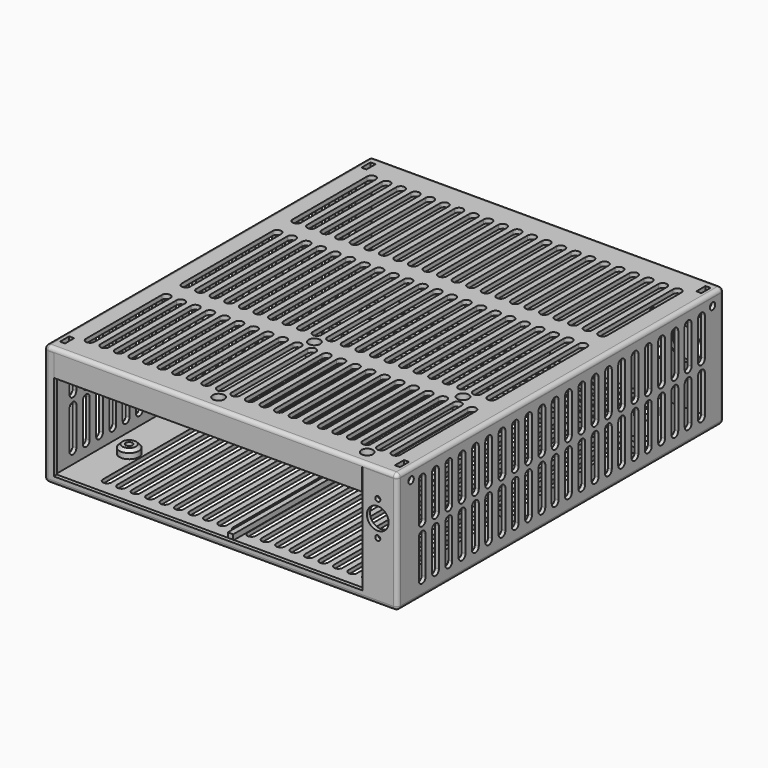
from build123d import *

# Parameters (mm, degrees)
SKETCH009_W            = 182
SKETCH009_H            = 210.5
PAD_DEPTH              = 2
SKETCH014_W            = 182
SKETCH014_H            = 210.5
SKETCH014_W_2          = 178
SKETCH014_H_2          = 206.5
PAD002_DEPTH           = 58
FILLET002_R            = 2
SKETCH010_R            = 5
PAD001_DEPTH           = 4.3
CHAMFER_SIZE           = 1.5
PAD009_DEPTH           = 2.8
POCKET_DEPTH           = 4.301
SKETCH034_R            = 1.75
POCKET015_DEPTH        = 55.501
POCKET001_DEPTH        = 60.001
LINEARPATTERN_COUNT    = 20
LINEARPATTERN_PITCH    = 7.446316
POCKET002_DEPTH        = 60.001
LINEARPATTERN001_COUNT = 4
LINEARPATTERN001_PITCH = 7.4
SKETCH018_R            = 1.75
POCKET005_DEPTH        = 92.501
POCKET005_DEPTH_BACK   = 89.501
SKETCH019_R            = 8.1
SKETCH019_R_2          = 3.3
POCKET006_DEPTH        = 121.001
SKETCH020_R            = 1.3
SKETCH020_R_2          = 5.6
POCKET007_DEPTH        = 89.501
SKETCH008_W            = 159
SKETCH008_H            = 56
POCKET003_DEPTH        = 2
POCKET004_DEPTH        = 92.501
POCKET004_DEPTH_BACK   = 89.501
LINEARPATTERN002_COUNT = 22
LINEARPATTERN002_PITCH = 8.567717
SKETCH021_W            = 182
SKETCH021_H            = 210.5
PAD003_DEPTH           = 2.2
FILLET003_R            = 1.99
SKETCH022_W            = 172
SKETCH022_H            = 62.86
SKETCH022_H_2          = 68.66
PAD004_DEPTH           = 2.8
SKETCH024_W            = 158.6
SKETCH024_H            = 2
PAD006_DEPTH           = 11.3
FILLET_R               = 3
SKETCH028_W            = 5
SKETCH028_H            = 9.888973
PAD007_DEPTH           = 7.6
POCKET013_DEPTH        = 1.3
POCKET014_DEPTH        = 1.3
SKETCH030_R            = 1.75
POCKET011_DEPTH        = 92.501
POCKET011_DEPTH_BACK   = 89.501
SKETCH023_R            = 4.2
PAD005_DEPTH           = 3.2
SKETCH027_R            = 3
POCKET009_DEPTH        = 3.4
SKETCH036_R            = 1.75
POCKET016_DEPTH        = 9.801
POCKET008_DEPTH        = 2.201
LINEARPATTERN003_COUNT = 22
LINEARPATTERN003_PITCH = 7.504762
SKETCH031_R            = 3
POCKET012_DEPTH        = 3
FILLET001_R            = 1.5


with BuildPart() as body:
    # Sketch009 → Pad (new body)
    with BuildSketch(Plane.XY):
        with Locations((-1.5, 15.75)):
            Rectangle(SKETCH009_W, SKETCH009_H)
    extrude(amount=PAD_DEPTH)

    # Sketch014 → Pad002 (join)
    with BuildSketch(Plane.XY.offset(2)):
        with Locations((-1.5, 15.75)):
            Rectangle(SKETCH014_W, SKETCH014_H)
        with Locations((-1.5, 15.75)):
            Rectangle(SKETCH014_W_2, SKETCH014_H_2, mode=Mode.SUBTRACT)
    extrude(amount=PAD002_DEPTH)

    # Fillet002
    fillet002_edges = [body.edges().sort_by_distance(p)[0] for p in [
        (-1.5, 121, 0),
        (-92.5, 15.75, 0),
        (-1.5, -89.5, 0),
        (89.5, 15.75, 0),
        (-92.5, -89.5, 30),
        (-92.5, 121, 30),
        (89.5, -89.5, 30),
        (89.5, 121, 30),
    ]]
    fillet(fillet002_edges, radius=FILLET002_R)

    # Sketch010 → Pad001 (join)
    with BuildSketch(Plane.XY.offset(2)):
        with Locations((-78.65, 104.5)):
            Circle(SKETCH010_R)
        with Locations((-78.65, 80.1)):
            Circle(SKETCH010_R)
        with Locations((62.65, 104.5)):
            Circle(SKETCH010_R)
        with Locations((78.83, 80.1)):
            Circle(SKETCH010_R)
        with Locations((78.83, -74.84)):
            Circle(SKETCH010_R)
        with Locations((-78.65, -51.98)):
            Circle(SKETCH010_R)
    extrude(amount=PAD001_DEPTH)

    # Chamfer
    chamfer_edges = [body.edges().sort_by_distance(p)[0] for p in [
        (-83.65, -51.98, 6.3),
        (-83.65, 80.1, 6.3),
        (-83.65, 104.5, 6.3),
        (57.65, 104.5, 6.3),
        (73.83, 80.1, 6.3),
        (73.83, -74.84, 6.3),
    ]]
    chamfer(chamfer_edges, length=CHAMFER_SIZE)

    # Sketch035 → Pad009 (join)
    with BuildSketch(Plane.XY.offset(2)):
        Polygon((-90.5, 1.4), (-90.5, -1.4), (-1.4, -1.4), (-1.4, -85), (1.4, -85), (1.4, -1.4), (87.5, -1.4), (87.5, 1.4), (1.4, 1.4), (1.4, 78.7), (87.5, 78.7), (87.5, 81.5), (1.4, 81.5), (1.4, 119), (-1.4, 119), (-1.4, 81.5), (-90.5, 81.5), (-90.5, 78.7), (-1.4, 78.7), (-1.4, 1.4), align=None)
    extrude(amount=PAD009_DEPTH)

    # Sketch011 → Pocket (cut, through all)
    with BuildSketch(Plane.XY.offset(4.3)):
        Polygon((-75.705514, 102.8), (-75.705514, 106.2), (-78.65, 107.9), (-81.594486, 106.2), (-81.594486, 102.8), (-78.65, 101.1), align=None)
        Polygon((65.594486, 102.8), (65.594486, 106.2), (62.65, 107.9), (59.705514, 106.2), (59.705514, 102.8), (62.65, 101.1), align=None)
        Polygon((81.774486, 78.4), (81.774486, 81.8), (78.83, 83.5), (75.885514, 81.8), (75.885514, 78.4), (78.83, 76.7), align=None)
        Polygon((81.774486, -76.54), (81.774486, -73.14), (78.83, -71.44), (75.885514, -73.14), (75.885514, -76.54), (78.83, -78.24), align=None)
        Polygon((-75.705514, -53.68), (-75.705514, -50.28), (-78.65, -48.58), (-81.594486, -50.28), (-81.594486, -53.68), (-78.65, -55.38), align=None)
        Polygon((-75.705514, 78.4), (-75.705514, 81.8), (-78.65, 83.5), (-81.594486, 81.8), (-81.594486, 78.4), (-78.65, 76.7), align=None)
    extrude(amount=-POCKET_DEPTH, mode=Mode.SUBTRACT)

    # Sketch034 → Pocket015 (cut, through all)
    with BuildSketch(Plane.XY.offset(4.5)):
        with Locations((-78.65, 104.5)):
            Circle(SKETCH034_R)
        with Locations((62.65, 104.5)):
            Circle(SKETCH034_R)
        with Locations((78.83, 80.1)):
            Circle(SKETCH034_R)
        with Locations((78.83, -74.84)):
            Circle(SKETCH034_R)
        with Locations((-78.65, -51.98)):
            Circle(SKETCH034_R)
        with Locations((-78.65, 80.1)):
            Circle(SKETCH034_R)
    extrude(amount=POCKET015_DEPTH, mode=Mode.SUBTRACT)

    # Sketch012 → Pocket001 (cut, through all)
    with BuildSketch(Plane.XY):
        with BuildLine():
            ThreePointArc((-68.45, 76.15), (-70.65, 78.35), (-72.85, 76.15))
            Line((-72.85, 76.15), (-72.85, 6))
            ThreePointArc((-72.85, 6), (-70.65, 3.8), (-68.45, 6))
            Line((-68.45, 76.15), (-68.45, 6))
        make_face()
        with BuildLine():
            ThreePointArc((-68.45, -6), (-70.65, -3.8), (-72.85, -6))
            Line((-72.85, -6), (-72.85, -76.15))
            ThreePointArc((-72.85, -76.15), (-70.65, -78.35), (-68.45, -76.15))
            Line((-68.45, -6), (-68.45, -76.15))
        make_face()
    pocket001 = extrude(amount=POCKET001_DEPTH, mode=Mode.SUBTRACT)

    # LinearPattern: Pocket001 ×20
    with Locations(*[(i * LINEARPATTERN_PITCH, 0, 0) for i in range(1, LINEARPATTERN_COUNT)]):
        add(pocket001, mode=Mode.SUBTRACT)

    # Sketch013 → Pocket002 (cut, through all)
    with BuildSketch(Plane.XY):
        with BuildLine():
            ThreePointArc((-70.65, 93.6), (-72.85, 91.4), (-70.65, 89.2))
            Line((-70.65, 89.2), (-4, 89.2))
            ThreePointArc((-4, 89.2), (-1.8, 91.4), (-4, 93.6))
            Line((-70.65, 93.6), (-4, 93.6))
        make_face()
        with BuildLine():
            ThreePointArc((4, 93.6), (1.8, 91.4), (4, 89.2))
            Line((4, 89.2), (54.65, 89.2))
            ThreePointArc((54.65, 89.2), (56.85, 91.4), (54.65, 93.6))
            Line((4, 93.6), (54.65, 93.6))
        make_face()
    pocket002 = extrude(amount=POCKET002_DEPTH, mode=Mode.SUBTRACT)

    # LinearPattern001: Pocket002 ×4
    with Locations(*[(0, i * LINEARPATTERN001_PITCH, 0) for i in range(1, LINEARPATTERN001_COUNT)]):
        add(pocket002, mode=Mode.SUBTRACT)

    # Sketch018 → Pocket005 (cut, two sides)
    with BuildSketch(Plane.YZ) as pocket005_sk:
        with Locations((-80.555514, 56.2)):
            Circle(SKETCH018_R)
        with Locations((113.655514, 56.2)):
            Circle(SKETCH018_R)
    extrude(amount=-POCKET005_DEPTH, mode=Mode.SUBTRACT)
    extrude(pocket005_sk.sketch, amount=POCKET005_DEPTH_BACK, mode=Mode.SUBTRACT)

    # Sketch019 → Pocket006 (cut, through all)
    with BuildSketch(Plane.XZ):
        with Locations((71.4, 31)):
            Circle(SKETCH019_R)
        with Locations((56.000325, 22.9)):
            Circle(SKETCH019_R_2)
        with Locations((56.000325, 39.1)):
            Circle(SKETCH019_R_2)
    extrude(amount=-POCKET006_DEPTH, mode=Mode.SUBTRACT)

    # Sketch020 → Pocket007 (cut, through all)
    with BuildSketch(Plane.XZ):
        with Locations((79.5, 48.1)):
            Circle(SKETCH020_R)
        with Locations((79.5, 30.32)):
            Circle(SKETCH020_R)
        with Locations((79.5, 39.21)):
            Circle(SKETCH020_R_2)
    extrude(amount=POCKET007_DEPTH, mode=Mode.SUBTRACT)

    # Sketch008 → Pocket003 (cut)
    with BuildSketch(Plane.XZ.offset(89.5)):
        with Locations((-8, 32)):
            Rectangle(SKETCH008_W, SKETCH008_H)
    extrude(amount=-POCKET003_DEPTH, mode=Mode.SUBTRACT)

    # Sketch017 → Pocket004 (cut, two sides)
    with BuildSketch(Plane.YZ) as pocket004_sk:
        with BuildLine():
            ThreePointArc((-71.211027, 54), (-73.411027, 56.2), (-75.611027, 54))
            Line((-75.611027, 54), (-75.611027, 34.5))
            ThreePointArc((-75.611027, 34.5), (-73.411027, 32.3), (-71.211027, 34.5))
            Line((-71.211027, 54), (-71.211027, 34.5))
        make_face()
        with BuildLine():
            ThreePointArc((-75.611027, 8.6), (-73.411027, 6.4), (-71.211027, 8.6))
            Line((-71.211027, 28.1), (-71.211027, 8.6))
            ThreePointArc((-71.211027, 28.1), (-73.411027, 30.3), (-75.611027, 28.1))
            Line((-75.611027, 28.1), (-75.611027, 8.6))
        make_face()
    pocket004 = extrude(amount=-POCKET004_DEPTH, mode=Mode.SUBTRACT) + extrude(pocket004_sk.sketch, amount=POCKET004_DEPTH_BACK, mode=Mode.SUBTRACT)

    # LinearPattern002: Pocket004 ×22
    with Locations(*[(0, i * LINEARPATTERN002_PITCH, 0) for i in range(1, LINEARPATTERN002_COUNT)]):
        add(pocket004, mode=Mode.SUBTRACT)


with BuildPart() as lid:
    # Sketch021 → Pad003 (new body)
    with BuildSketch(Plane.XY.offset(60)):
        with Locations((-1.5, 15.75)):
            Rectangle(SKETCH021_W, SKETCH021_H)
    extrude(amount=PAD003_DEPTH)

    # Fillet003
    fillet003_edges = [lid.edges().sort_by_distance(p)[0] for p in [
        (-1.5, 121, 62.2),
        (89.5, 15.75, 62.2),
        (-1.5, -89.5, 62.2),
        (-92.5, 15.75, 62.2),
        (-92.5, -89.5, 61.1),
        (-92.5, 121, 61.1),
        (89.5, -89.5, 61.1),
        (89.5, 121, 61.1),
    ]]
    fillet(fillet003_edges, radius=FILLET003_R)

    # Sketch022 → Pad004 (join)
    with BuildSketch(Plane.XY.offset(60)):
        Polygon((-90.3, 118.8), (-90.3, -87.3), (-87.5, -87.3), (-87.5, -21.12), (84.5, -21.12), (84.5, -84.5), (71.5, -84.5), (71.5, -87.3), (87.3, -87.3), (87.3, -84.5), (87.3, 118.8), align=None)
        with Locations((-1.5, 84.57)):
            Rectangle(SKETCH022_W, SKETCH022_H, mode=Mode.SUBTRACT)
        with Locations((-1.5, 16.01)):
            Rectangle(SKETCH022_W, SKETCH022_H_2, mode=Mode.SUBTRACT)
    extrude(amount=-PAD004_DEPTH)

    # Sketch024 → Pad006 (join)
    with BuildSketch(Plane.XY.offset(60)):
        with Locations((-8, -88.5)):
            Rectangle(SKETCH024_W, SKETCH024_H)
    extrude(amount=-PAD006_DEPTH)

    # Fillet
    fillet_edges = [lid.edges().sort_by_distance(p)[0] for p in [
        (-8, -87.5, 60),
    ]]
    fillet(fillet_edges, radius=FILLET_R)

    # Sketch028 → Pad007 (join)
    with BuildSketch(Plane.XY.offset(60)):
        with Locations((-87.8, 113.655513)):
            Rectangle(SKETCH028_W, SKETCH028_H)
        with Locations((84.8, 113.655513)):
            Rectangle(SKETCH028_W, SKETCH028_H)
        with Locations((-87.8, -80.555513)):
            Rectangle(SKETCH028_W, SKETCH028_H)
        with Locations((84.8, -80.555513)):
            Rectangle(SKETCH028_W, SKETCH028_H)
    extrude(amount=-PAD007_DEPTH)

    # Sketch032 → Pocket013 (cut, symmetric)
    with BuildSketch(Plane.YZ.offset(84.8)):
        Polygon((110.711027, 54.5), (110.711027, 62.2), (116.6, 62.2), (116.6, 54.5), (115.127757, 53.65), (115.127757, 52.4), (112.18327, 52.4), (112.18327, 53.65), align=None)
        Polygon((-83.5, 54.5), (-83.5, 62.2), (-77.611027, 62.2), (-77.611027, 54.5), (-79.08327, 53.65), (-79.08327, 52.4), (-82.027757, 52.4), (-82.027757, 53.65), align=None)
    extrude(amount=POCKET013_DEPTH, both=True, mode=Mode.SUBTRACT)

    # Sketch033 → Pocket014 (cut, symmetric)
    with BuildSketch(Plane.YZ.offset(-87.8)):
        Polygon((110.711027, 54.5), (110.711027, 62.2), (116.6, 62.2), (116.6, 54.5), (115.127757, 53.65), (115.127757, 52.4), (112.18327, 52.4), (112.18327, 53.65), align=None)
        Polygon((-83.5, 54.5), (-83.5, 62.2), (-77.611027, 62.2), (-77.611027, 54.5), (-79.08327, 53.65), (-79.08327, 52.4), (-82.027757, 52.4), (-82.027757, 53.65), align=None)
    extrude(amount=POCKET014_DEPTH, both=True, mode=Mode.SUBTRACT)

    # Sketch030 → Pocket011 (cut, two sides)
    with BuildSketch(Plane.YZ) as pocket011_sk:
        with Locations((113.655514, 56.2)):
            Circle(SKETCH030_R)
        with Locations((-80.555514, 56.2)):
            Circle(SKETCH030_R)
    extrude(amount=-POCKET011_DEPTH, mode=Mode.SUBTRACT)
    extrude(pocket011_sk.sketch, amount=POCKET011_DEPTH_BACK, mode=Mode.SUBTRACT)

    # Sketch023 → Pad005 (join)
    with BuildSketch(Plane.XY.offset(60)):
        with Locations((-9, -19.72)):
            Circle(SKETCH023_R)
        with Locations((67.6, -19.72)):
            Circle(SKETCH023_R)
        with Locations((67.6, -81.43)):
            Circle(SKETCH023_R)
        with Locations((-9, -81.43)):
            Circle(SKETCH023_R)
    extrude(amount=-PAD005_DEPTH)

    # Sketch027 → Pocket009 (cut)
    with BuildSketch(Plane.XY.offset(62.2)):
        with Locations((-9, -19.72)):
            Circle(SKETCH027_R)
        with Locations((67.6, -19.72)):
            Circle(SKETCH027_R)
        with Locations((67.6, -81.43)):
            Circle(SKETCH027_R)
        with Locations((-9, -81.43)):
            Circle(SKETCH027_R)
    extrude(amount=-POCKET009_DEPTH, mode=Mode.SUBTRACT)

    # Sketch036 → Pocket016 (cut, through all)
    with BuildSketch(Plane.XY.offset(58.5)):
        with Locations((-9, -19.72)):
            Circle(SKETCH036_R)
        with Locations((67.6, -19.72)):
            Circle(SKETCH036_R)
        with Locations((67.6, -81.43)):
            Circle(SKETCH036_R)
        with Locations((-9, -81.43)):
            Circle(SKETCH036_R)
    extrude(amount=-POCKET016_DEPTH, mode=Mode.SUBTRACT)

    # Sketch026 → Pocket008 (cut, through all)
    with BuildSketch(Plane.XY.offset(60)):
        with BuildLine():
            ThreePointArc((79.5, -26.12), (77.3, -23.92), (75.1, -26.12))
            Line((75.1, -26.12), (75.1, -75.03))
            ThreePointArc((75.1, -75.03), (77.3, -77.23), (79.5, -75.03))
            Line((79.5, -26.12), (79.5, -75.03))
        make_face()
        with BuildLine():
            ThreePointArc((75.1, -13.32), (77.3, -15.52), (79.5, -13.32))
            Line((79.5, -13.32), (79.5, 45.34))
            ThreePointArc((79.5, 45.34), (77.3, 47.54), (75.1, 45.34))
            Line((75.1, -13.32), (75.1, 45.34))
        make_face()
        with BuildLine():
            ThreePointArc((79.5, 106.2), (77.3, 108.4), (75.1, 106.2))
            Line((75.1, 106.2), (75.1, 58.14))
            ThreePointArc((75.1, 58.14), (77.3, 55.94), (79.5, 58.14))
            Line((79.5, 106.2), (79.5, 58.14))
        make_face()
    pocket008 = extrude(amount=POCKET008_DEPTH, mode=Mode.SUBTRACT)

    # LinearPattern003: Pocket008 ×22
    with Locations(*[(-i * LINEARPATTERN003_PITCH, 0, 0) for i in range(1, LINEARPATTERN003_COUNT)]):
        add(pocket008, mode=Mode.SUBTRACT)


with BuildPart() as bumps:
    # Cone → Cone (revolve)
    with BuildSketch(Plane.XZ):
        Polygon((0, 0), (8, 0), (6, 4), (0, 4), align=None)
    revolve(axis=Axis((0, 0, 0), (0, 0, 1)))

    # Sketch031 (on Face2 of Cone) → Pocket012 (cut)
    with BuildSketch(Plane.XY.offset(4)):
        Circle(SKETCH031_R)
    extrude(amount=-POCKET012_DEPTH, mode=Mode.SUBTRACT)

    # Fillet001
    fillet001_edges = [bumps.edges().sort_by_distance(p)[0] for p in [
        (-6, 0, 4),
        (-3, 0, 4),
    ]]
    fillet(fillet001_edges, radius=FILLET001_R)


solid = Compound([body.part, lid.part, bumps.part])
